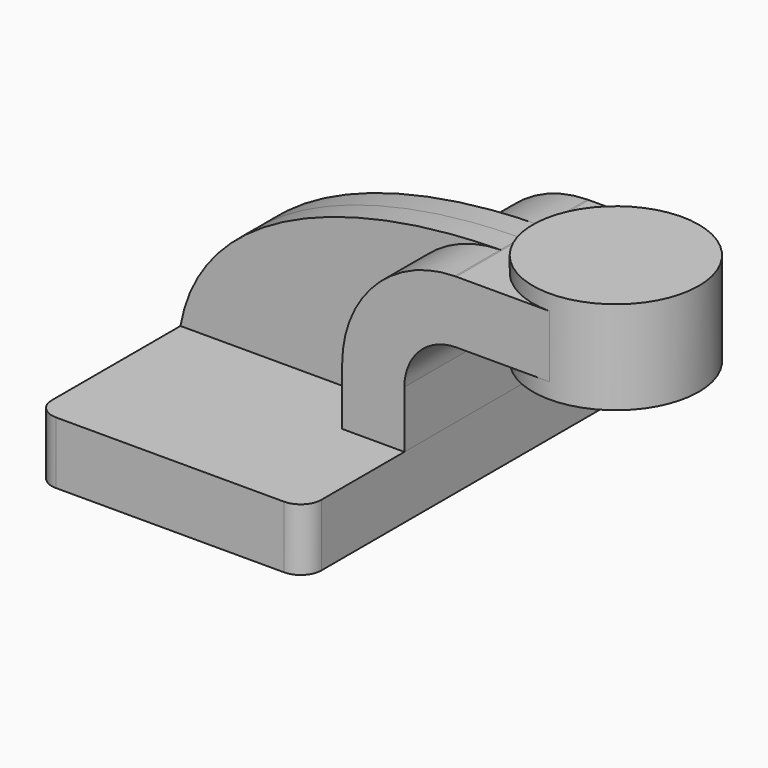
from build123d import *

# Parameters (mm, degrees)
F1_DEPTH = 63.5
F0_W     = 25.4
F0_H     = 19.05
F2_DEPTH = 25.4
F3_DEPTH = 7.9248
F5_R     = 6.35


with BuildPart() as f1:
    # F0 (on Front) → F1 (new body, symmetric)
    with BuildSketch(Plane.XZ):
        Polygon((-41.275, -9.525), (41.275, -9.525), (41.275, 9.525), (22.225, 9.525), (-41.275, 9.525), align=None)
    extrude(amount=F1_DEPTH, both=True)

    # F5
    f5_edges = [f1.edges().sort_by_distance(p)[0] for p in [
        (-41.275, -63.5, 0),
        (41.275, -63.5, 0),
        (41.275, 63.5, 0),
        (-41.275, 63.5, 0),
    ]]
    fillet(f5_edges, radius=F5_R)


with BuildPart() as f2:
    # F0 (on Front) → F2 (new body, symmetric)
    with BuildSketch(Plane.XZ):
        with BuildLine():
            Line((22.225, 9.525), (41.275, 9.525))
            Line((41.275, 9.525), (41.275, 27.0002))
            ThreePointArc((41.275, 27.0002), (45.9246798487, 38.2255201513), (57.15, 42.8752))
            Line((57.15, 42.8752), (60.325, 42.8752))
            Line((60.325, 42.8752), (60.325, 61.9252))
            Line((60.325, 61.9252), (57.15, 61.9252))
            add(Edge.make_bspline(
                [(56.7072049676, 61.9223929088), (56.854807494, 61.923490645), (57.0024062893, 61.9244262873), (57.15, 61.9252)],
                knots=[111.1451723122, 111.1451723122, 111.1451723122, 111.1451723122, 111.5045361635, 111.5045361635, 111.5045361635, 111.5045361635], degree=3))
            ThreePointArc((56.7072049676, 61.9223929088), (32.2982370695, 51.5388532688), (22.225, 27.0002))
            Line((22.225, 27.0002), (22.225, 9.525))
        make_face()
        with Locations((73.025, 52.4002)):
            Rectangle(F0_W, F0_H)
    extrude(amount=F2_DEPTH, both=True)

    # F0 (on Front) → F4 (revolve)
    with BuildSketch(Plane.XZ):
        Polygon((85.725, 61.9252), (85.725, 42.8752), (85.725, 38.1), (111.125, 38.1), (111.125, 66.675), (85.725, 66.675), align=None)
    revolve(axis=Axis((85.725, 0, 52.3875), (0, 0, 1)))


with BuildPart() as f3:
    # F0 (on Front) → F3 (new body, symmetric)
    with BuildSketch(Plane.XZ):
        with BuildLine():
            add(Edge.make_bspline(
                [(-41.275, 9.525), (-34.9516392551, 45.7381070887), (11.0562354186, 61.5828816371), (56.7072049676, 61.9223929088)],
                knots=[0, 0, 0, 0, 111.1451723122, 111.1451723122, 111.1451723122, 111.1451723122], degree=3))
            Line((-41.275, 9.525), (22.225, 9.525))
            Line((22.225, 9.525), (22.225, 27.0002))
            ThreePointArc((22.225, 27.0002), (32.2982370695, 51.5388532688), (56.7072049676, 61.9223929088))
        make_face()
    extrude(amount=F3_DEPTH, both=True)


solid = Compound([f1.part, f2.part, f3.part])
